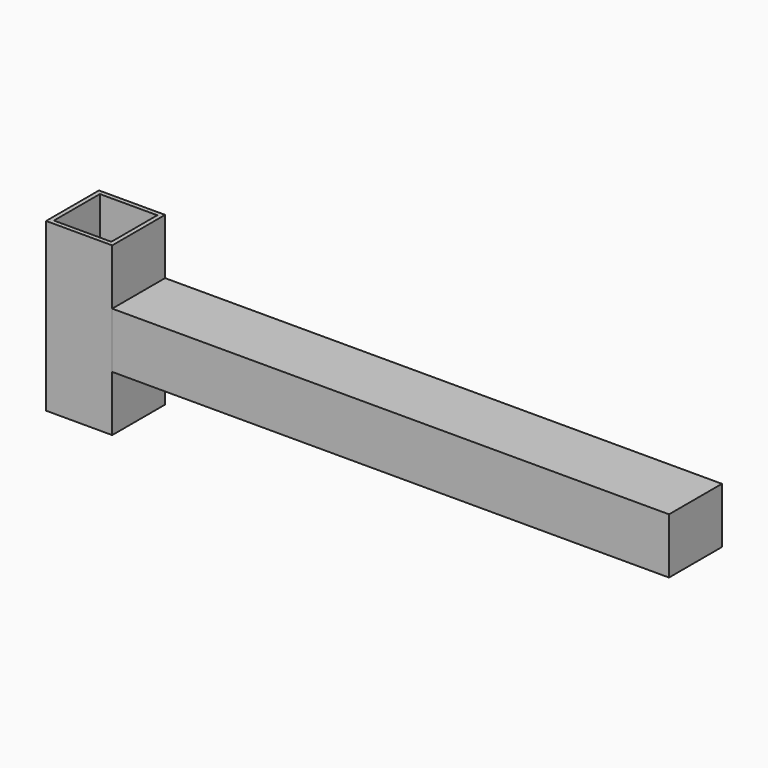
from build123d import *

# Parameters (mm, degrees)
F0_W     = 60.325
F0_H     = 60.325
F0_W_2   = 52.3875
F0_H_2   = 52.3875
F1_DEPTH = 152.4
F2_W     = 508
F2_H     = 50.8
F3_DEPTH = 60.325


with BuildPart() as f1:
    # F0 (on Top) → F1 (new body)
    with BuildSketch(Plane.XY):
        Rectangle(F0_W, F0_H)
        Rectangle(F0_W_2, F0_H_2, mode=Mode.SUBTRACT)
    extrude(amount=F1_DEPTH)


with BuildPart() as f3:
    # F2 (on face) → F3 (new body)
    with BuildSketch(Plane.XZ.offset(30.1625)):
        with Locations((284.1625, 76.2)):
            Rectangle(F2_W, F2_H)
    extrude(amount=-F3_DEPTH)


solid = Compound([f1.part, f3.part])
